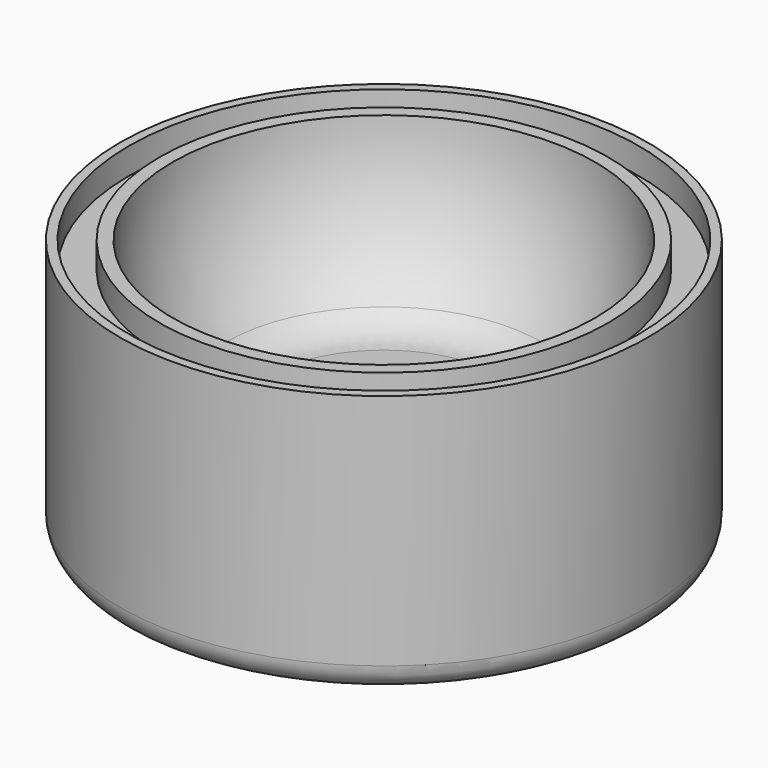
from build123d import *

# Parameters (mm, degrees)
F2_DEPTH = 6.35
F3_R     = 3.175
F4_R     = 15.33125
F4_R_2   = 13.49375
F5_DEPTH = 1.5875
F6_R     = 1.5875


with BuildPart() as f1:
    # F0 (on Front) → F1 (revolve)
    with BuildSketch(Plane.XZ):
        with BuildLine():
            Line((0, -15.875), (0, -12.7))
            ThreePointArc((0, -12.7), (-8.9802561211, -8.9802561211), (-12.7, 0))
            Line((-12.7, 0), (-15.875, 0))
            Line((-15.875, 0), (-15.875, -15.875))
            Line((-15.875, -15.875), (0, -15.875))
        make_face()
    revolve(axis=Axis((0, 0, -1.4379415661), (0, 0, -1)))

    # F2 (add): a face of the model
    f2_faces = [f1.faces().sort_by_distance(p)[0] for p in [
        (0, 0, -15.875),
    ]]
    extrude(f2_faces, amount=-F2_DEPTH)

    # F3
    f3_edges = [f1.edges().sort_by_distance(p)[0] for p in [
        (8.40026, 0, -9.525),
    ]]
    fillet(f3_edges, radius=F3_R)

    # F4 (on face) → F5 (cut)
    with BuildSketch(Plane.XY):
        Circle(F4_R)
        Circle(F4_R_2, mode=Mode.SUBTRACT)
    extrude(amount=-F5_DEPTH, mode=Mode.SUBTRACT)

    # F6
    f6_edges = [f1.edges().sort_by_distance(p)[0] for p in [
        (15.875, 0, -15.875),
    ]]
    fillet(f6_edges, radius=F6_R)


solid = f1.part
